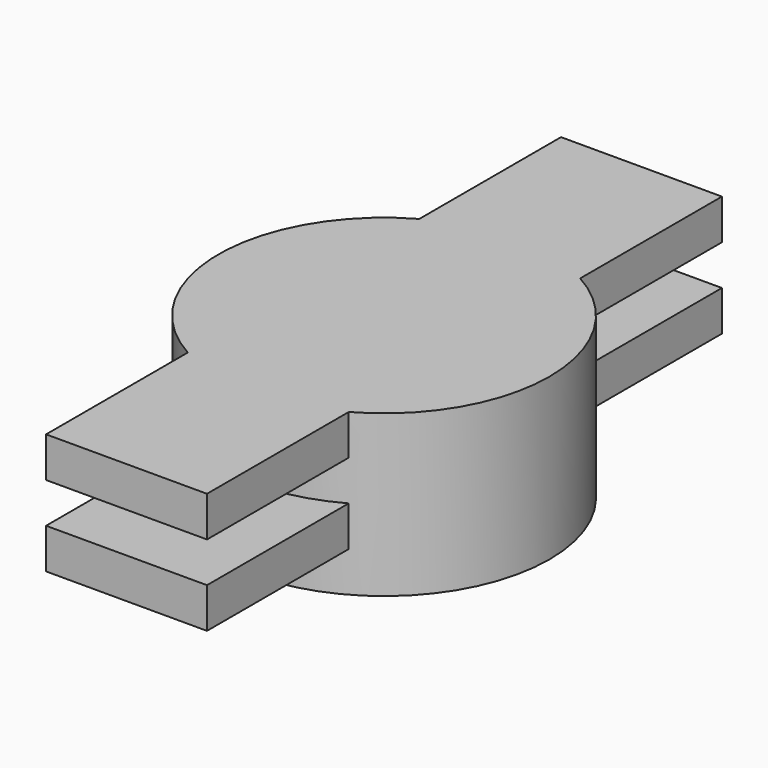
from build123d import *

# Parameters (mm, degrees)
SKETCH004_R      = 8.23
EXTRUDE004_DEPTH = 8
EXTRUDE005_DEPTH = 2
ARRAY_Z_COUNT    = 2
ARRAY_Z_PITCH    = 4


with BuildPart() as eixo1:
    # Sketch004 → Extrude004 (new body)
    with BuildSketch(Plane.XY):
        Circle(SKETCH004_R)
    extrude(amount=EXTRUDE004_DEPTH)


with BuildPart() as eixo_maior:
    # Sketch005 (on Face8 of Extrude002) → Extrude005 (new body)
    with BuildSketch(Plane.XY.offset(2)):
        with BuildLine():
            Line((-4, 16), (4, 16))
            Line((4, 6.9282032303), (4, 16))
            ThreePointArc((4, -6.9282032303), (8, 0), (4, 6.9282032303))
            Line((4, -6.9282032303), (4, -16))
            Line((4, -16), (-4, -16))
            Line((-4, -6.9282032303), (-4, -16))
            ThreePointArc((-4, 6.9282032303), (-8, 0), (-4, -6.9282032303))
            Line((-4, 16), (-4, 6.9282032303))
        make_face()
    extrude(amount=EXTRUDE005_DEPTH)

    # Array Z: Eixo Maior ×2


with BuildPart() as eixo_maior_1:
    add(eixo_maior.part)
    with Locations(*[(0, 0, i * ARRAY_Z_PITCH) for i in range(1, ARRAY_Z_COUNT)]):
        add(eixo_maior.part)

    # Fusion001: union Eixo1
    add(eixo1.part)


solid = eixo_maior_1.part
